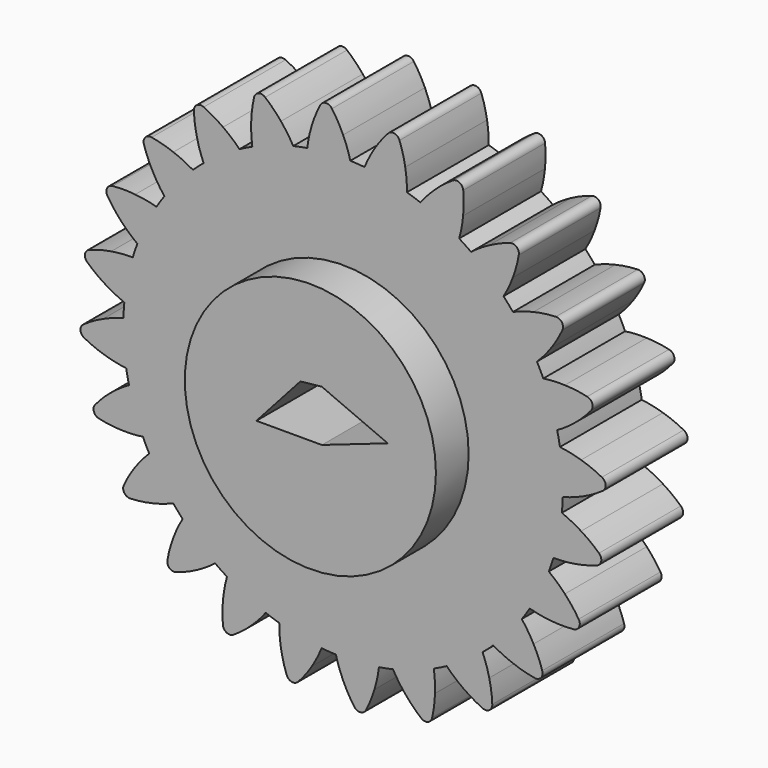
from build123d import *

# Parameters (mm, degrees)
F0_R     = 30.690224
F1_DEPTH = 25
F2_COUNT = 24
F3_DEPTH = 35


with BuildPart() as f1:
    # F0 (on Front) → F1 (new body)
    with BuildSketch(Plane.XZ):
        with BuildLine():
            ThreePointArc((-8.7621, 53.001617), (-34.750806, -40.967393), (53.721, 0))
            ThreePointArc((53.721, 0), (38.606867, 37.355798), (1.76904, 53.691865))
            ThreePointArc((1.76904, 53.691865), (-3.513522, 53.605979), (-8.7621, 53.001617))
        make_face()
        Circle(F0_R, mode=Mode.SUBTRACT)
        with BuildLine():
            ThreePointArc((-8.7621, 53.001617), (-3.513522, 53.605979), (1.76904, 53.691865))
            ThreePointArc((1.76904, 53.691865), (0.997211, 56.222946), (0, 58.674))
            ThreePointArc((0, 58.674), (-1.241969, 61.125271), (-2.720257, 63.441707))
            ThreePointArc((-2.720257, 63.441707), (-4.206703, 64.181881), (-5.58382, 63.254019))
            ThreePointArc((-5.58382, 63.254019), (-6.747105, 60.764445), (-7.658494, 58.172036))
            ThreePointArc((-7.658494, 58.172036), (-8.327247, 55.611789), (-8.7621, 53.001617))
        make_face()
    extrude(amount=F1_DEPTH)



with BuildPart() as f2_1:
    # F2: instance of F1
    add(f1.part.rotate(Axis((0, 0, 0), (0, 1, 0)), 1 * 360 / F2_COUNT))


with BuildPart() as f2_2:
    # F2: instance of F1
    add(f1.part.rotate(Axis((0, 0, 0), (0, 1, 0)), 2 * 360 / F2_COUNT))


with BuildPart() as f2_3:
    # F2: instance of F1
    add(f1.part.rotate(Axis((0, 0, 0), (0, 1, 0)), 3 * 360 / F2_COUNT))


with BuildPart() as f2_4:
    # F2: instance of F1
    add(f1.part.rotate(Axis((0, 0, 0), (0, 1, 0)), 4 * 360 / F2_COUNT))


with BuildPart() as f2_5:
    # F2: instance of F1
    add(f1.part.rotate(Axis((0, 0, 0), (0, 1, 0)), 5 * 360 / F2_COUNT))


with BuildPart() as f2_6:
    # F2: instance of F1
    add(f1.part.rotate(Axis((0, 0, 0), (0, 1, 0)), 6 * 360 / F2_COUNT))


with BuildPart() as f2_7:
    # F2: instance of F1
    add(f1.part.rotate(Axis((0, 0, 0), (0, 1, 0)), 7 * 360 / F2_COUNT))


with BuildPart() as f2_8:
    # F2: instance of F1
    add(f1.part.rotate(Axis((0, 0, 0), (0, 1, 0)), 8 * 360 / F2_COUNT))


with BuildPart() as f2_9:
    # F2: instance of F1
    add(f1.part.rotate(Axis((0, 0, 0), (0, 1, 0)), 9 * 360 / F2_COUNT))


with BuildPart() as f2_10:
    # F2: instance of F1
    add(f1.part.rotate(Axis((0, 0, 0), (0, 1, 0)), 10 * 360 / F2_COUNT))


with BuildPart() as f2_11:
    # F2: instance of F1
    add(f1.part.rotate(Axis((0, 0, 0), (0, 1, 0)), 11 * 360 / F2_COUNT))


with BuildPart() as f2_12:
    # F2: instance of F1
    add(f1.part.rotate(Axis((0, 0, 0), (0, 1, 0)), 12 * 360 / F2_COUNT))


with BuildPart() as f2_13:
    # F2: instance of F1
    add(f1.part.rotate(Axis((0, 0, 0), (0, 1, 0)), 13 * 360 / F2_COUNT))


with BuildPart() as f2_14:
    # F2: instance of F1
    add(f1.part.rotate(Axis((0, 0, 0), (0, 1, 0)), 14 * 360 / F2_COUNT))


with BuildPart() as f2_15:
    # F2: instance of F1
    add(f1.part.rotate(Axis((0, 0, 0), (0, 1, 0)), 15 * 360 / F2_COUNT))


with BuildPart() as f2_16:
    # F2: instance of F1
    add(f1.part.rotate(Axis((0, 0, 0), (0, 1, 0)), 16 * 360 / F2_COUNT))


with BuildPart() as f2_17:
    # F2: instance of F1
    add(f1.part.rotate(Axis((0, 0, 0), (0, 1, 0)), 17 * 360 / F2_COUNT))


with BuildPart() as f2_18:
    # F2: instance of F1
    add(f1.part.rotate(Axis((0, 0, 0), (0, 1, 0)), 18 * 360 / F2_COUNT))


with BuildPart() as f2_19:
    # F2: instance of F1
    add(f1.part.rotate(Axis((0, 0, 0), (0, 1, 0)), 19 * 360 / F2_COUNT))


with BuildPart() as f2_20:
    # F2: instance of F1
    add(f1.part.rotate(Axis((0, 0, 0), (0, 1, 0)), 20 * 360 / F2_COUNT))


with BuildPart() as f2_21:
    # F2: instance of F1
    add(f1.part.rotate(Axis((0, 0, 0), (0, 1, 0)), 21 * 360 / F2_COUNT))


with BuildPart() as f2_22:
    # F2: instance of F1
    add(f1.part.rotate(Axis((0, 0, 0), (0, 1, 0)), 22 * 360 / F2_COUNT))


with BuildPart() as f2_23:
    # F2: instance of F1
    add(f1.part.rotate(Axis((0, 0, 0), (0, 1, 0)), 23 * 360 / F2_COUNT))


with BuildPart() as f1_1:
    add(f1.part)

    add(f2_1.part)  # F3 merges F2_1

    add(f2_2.part)  # F3 merges F2_2

    add(f2_3.part)  # F3 merges F2_3

    add(f2_4.part)  # F3 merges F2_4

    add(f2_5.part)  # F3 merges F2_5

    add(f2_6.part)  # F3 merges F2_6

    add(f2_7.part)  # F3 merges F2_7

    add(f2_8.part)  # F3 merges F2_8

    add(f2_9.part)  # F3 merges F2_9

    add(f2_10.part)  # F3 merges F2_10

    add(f2_11.part)  # F3 merges F2_11

    add(f2_12.part)  # F3 merges F2_12

    add(f2_13.part)  # F3 merges F2_13

    add(f2_14.part)  # F3 merges F2_14

    add(f2_15.part)  # F3 merges F2_15

    add(f2_16.part)  # F3 merges F2_16

    add(f2_17.part)  # F3 merges F2_17

    add(f2_18.part)  # F3 merges F2_18

    add(f2_19.part)  # F3 merges F2_19

    add(f2_20.part)  # F3 merges F2_20

    add(f2_21.part)  # F3 merges F2_21

    add(f2_22.part)  # F3 merges F2_22

    add(f2_23.part)  # F3 merges F2_23
    # F0 (on Front) → F3 (join)
    with BuildSketch(Plane.XZ):
        Circle(F0_R)
        Polygon((-2.448437, 8.909413), (2.807972, 9.468559), (18.912716, 2.535142), (2.807972, -3.056325), (-13.184933, -3.056325), align=None, mode=Mode.SUBTRACT)
    extrude(amount=F3_DEPTH)


solid = f1_1.part
